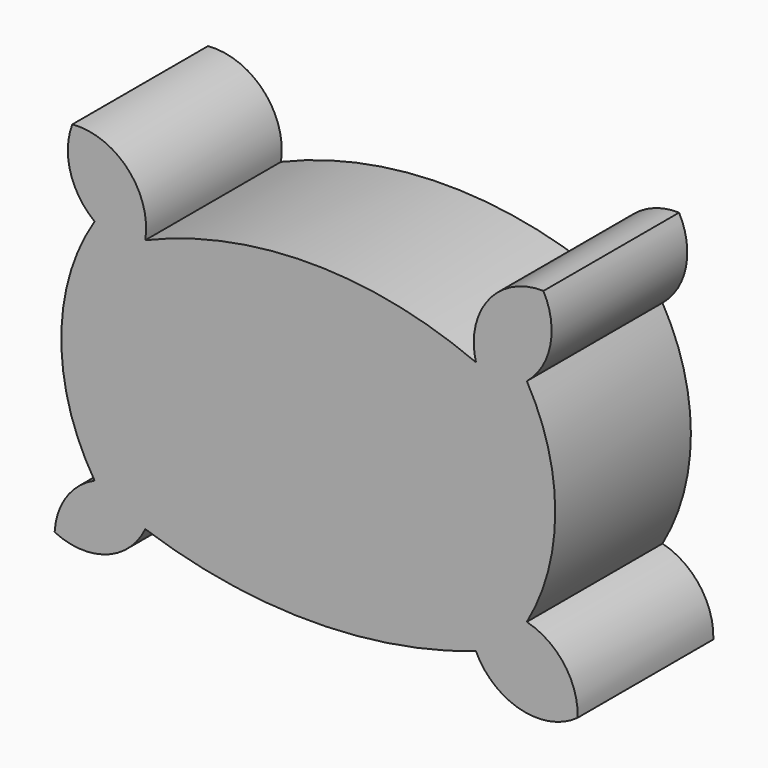
from build123d import *

# Parameters (mm, degrees)
F1_DEPTH = 20


with BuildPart() as f1:
    # F0 (on Front) → F1 (new body)
    with BuildSketch(Plane.XZ):
        with BuildLine():
            ThreePointArc((6, -33), (4.404002, -27.946999), (0, -25))
            ThreePointArc((0, -25), (3.349365, -12.5), (0, 0))
            ThreePointArc((0, 0), (2.776172, 4.64825), (1.956342, 10))
            ThreePointArc((1.956342, 10), (-4.515013, 6.983663), (-6, 0))
            ThreePointArc((-6, 0), (-25.5, 3.94398), (-45, 0))
            ThreePointArc((-45, 0), (-47.052036, 6.711726), (-53.605872, 9.222772))
            ThreePointArc((-53.605872, 9.222772), (-53.826207, 4.173647), (-50.976141, 0))
            ThreePointArc((-50.976141, 0), (-54.905427, -13.454553), (-50.976141, -26.909107))
            ThreePointArc((-50.976141, -26.909107), (-54.301232, -29.687561), (-55.689886, -33.792153))
            ThreePointArc((-55.689886, -33.792153), (-49.556723, -34.118029), (-45, -30))
            ThreePointArc((-45, -30), (-25.5, -33.215544), (-6, -30))
            ThreePointArc((-6, -30), (-0.709551, -34.338204), (6, -33))
        make_face()
    extrude(amount=F1_DEPTH)


solid = f1.part
